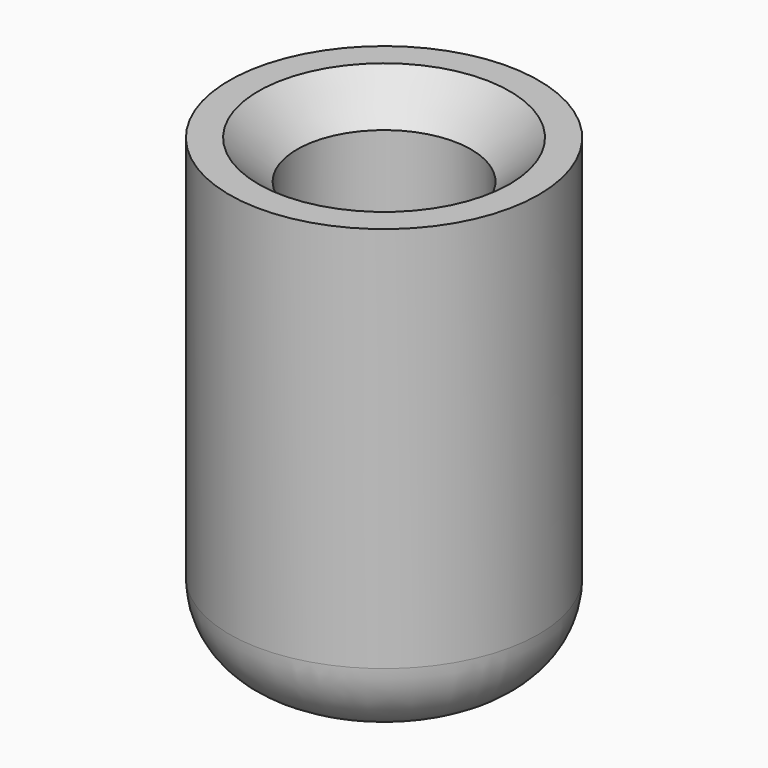
from build123d import *

# Parameters (mm, degrees)
SKETCH_R     = 2
PAD_DEPTH    = 6
SKETCH001_R  = 1.125
POCKET_DEPTH = 5
CHAMFER_SIZE = 0.5
FILLET_R     = 1


with BuildPart() as part:
    # Sketch → Pad (new body)
    with BuildSketch(Plane.XY):
        Circle(SKETCH_R)
    extrude(amount=PAD_DEPTH)

    # Sketch001 (on Face3 of Pad) → Pocket (cut)
    with BuildSketch(Plane.XY.offset(6)):
        Circle(SKETCH001_R)
    extrude(amount=-POCKET_DEPTH, mode=Mode.SUBTRACT)

    # Chamfer
    chamfer_edges = [part.edges().sort_by_distance(p)[0] for p in [
        (-1.125, 0, 6),
    ]]
    chamfer(chamfer_edges, length=CHAMFER_SIZE)

    # Fillet
    fillet_edges = [part.edges().sort_by_distance(p)[0] for p in [
        (-2, 0, 0),
    ]]
    fillet(fillet_edges, radius=FILLET_R)


solid = part.part
